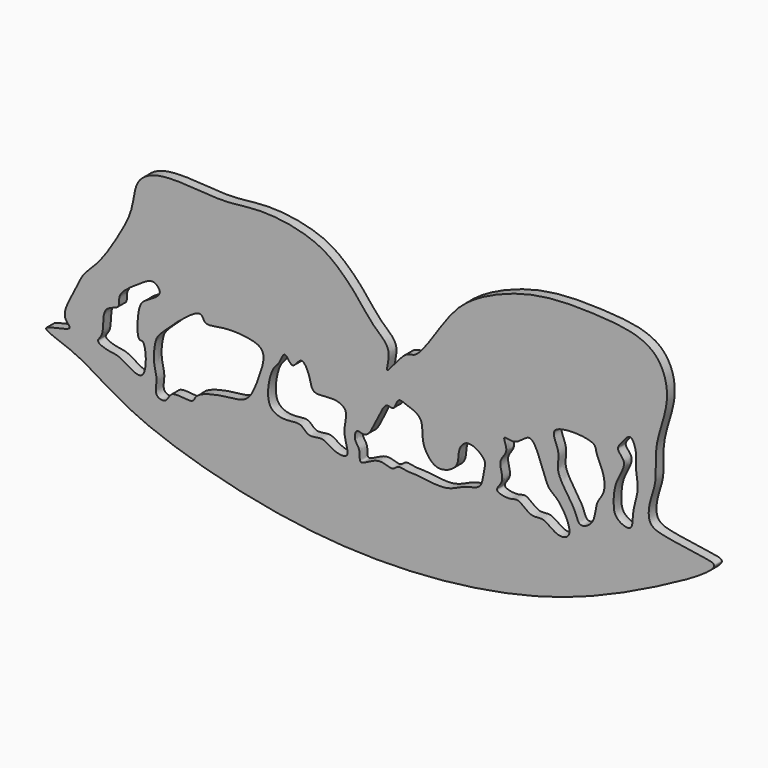
from build123d import *

# Parameters (mm, degrees)
F0_W     = 400
F0_H     = 400
F1_DEPTH = 5
F2_W     = 400
F2_H     = 400
F3_DEPTH = 5
F4_DEPTH = 25


with BuildPart() as f1:
    # F0 (on Front) → F1 (new body)
    with BuildSketch(Plane.XZ):
        Rectangle(F0_W, F0_H)
    extrude(amount=F1_DEPTH)

    # F2 (on face) → F3 (cut, through all)
    with BuildSketch(Plane.XZ.offset(5)):
        Rectangle(F2_W, F2_H)
        with BuildLine():
            add(Edge.make_bspline(
                [(-158.6079895496, -13.9567218721), (-159.7820255249, -10.4262417489), (-152.8310670321, 0.3991916247), (-150.267162206, 8.6616230975), (-140.7477867322, 16.6470810656), (-131.6184867257, 31.2680311733), (-123.1652697351, 46.064122444), (-122.9513191683, 60.4765167442), (-111.8619089097, 67.5705718446), (-92.8821281738, 66.8033823139), (-74.9440039202, 65.0883762249), (-56.3075563426, 68.7569445196), (-30.1126504116, 64.3111684686), (-17.1302491751, 54.7645881842), (-7.4146724016, 44.649064424), (0.6551638009, 33.2108235364), (10.9041810176, 26.7331654718), (4.8029219109, 10.360621283), (17.0551399673, 28.8324617514), (23.3189254489, 25.5708867567), (38.0026388208, 50.5075962071), (51.5874399205, 64.2377871551), (82.6197524024, 77.2489271782), (115.3059975854, 77.1095759435), (147.0288648974, 74.2400497984), (155.2978582529, 49.8582545887), (144.8895347019, 28.1566064827), (147.509251783, 10.8845469646), (142.821465328, 0.7171376005), (142.2591813066, -10.2524089187), (151.4752400846, -12.9509000839), (169.9636261381, -15.4376947531), (182.9671691685, -17.5618400515), (134.6643733444, -44.2501952094), (75.2442204111, -67.9798731748), (-27.1969586365, -76.8572350571), (-125.6335445544, -49.0957517689), (-149.0281696175, -28.489515178), (-177.259798464, -21.1828285364), (-152.0956375979, -19.0637035334), (-157.9543942133, -15.9221687514), (-158.6079895496, -13.9567218721)],
                knots=[0, 0, 0, 0, 0.0221316045, 0.0397040196, 0.0592160342, 0.0833112073, 0.1071883923, 0.128019353, 0.1472491954, 0.1721531474, 0.1965833866, 0.2217466435, 0.2509965929, 0.27392182, 0.295249103, 0.3168620655, 0.3362755072, 0.3527670921, 0.3739249026, 0.3875171307, 0.4164558328, 0.4429678518, 0.4752862126, 0.5089877549, 0.5398121578, 0.5661312996, 0.5940609705, 0.6175151996, 0.6367459506, 0.6539878387, 0.6704799139, 0.6964567842, 0.7102015007, 0.7471484373, 0.7955796259, 0.8542927295, 0.9114963095, 0.9450671919, 0.9674590719, 0.9876791565, 1, 1, 1, 1], degree=3))
        make_face(mode=Mode.SUBTRACT)
    extrude(amount=-F3_DEPTH, mode=Mode.SUBTRACT)

    # F2 (on face) → F4 (cut)
    with BuildSketch(Plane.XZ.offset(5)):
        with BuildLine():
            add(Edge.make_bspline(
                [(-141.6382938623, -19.080253318), (-141.9060621279, -18.1697737658), (-137.7985860132, -15.611964464), (-140.5394187758, -1.6010656723), (-129.3642321491, -1.2450743374), (-132.3184605412, 6.1988312444), (-121.4239240731, 13.0548280936), (-115.9020148789, 17.0647953474), (-112.0364114147, 17.5321022284), (-107.5152570214, 12.2791937004), (-117.7936986085, 7.6209150195), (-121.2640756425, 3.2740962674), (-121.7557106524, -13.100224484), (-116.9678847099, -9.8452817307), (-115.5432694023, -34.0405901564), (-130.0476168922, -21.6776330626), (-135.4699121475, -22.2490603831), (-141.3233793031, -20.1510421442), (-141.6382938623, -19.080253318)],
                knots=[0, 0, 0, 0, 0.0474927946, 0.1269994989, 0.1887974044, 0.2410408099, 0.3203749845, 0.3818138951, 0.4239798279, 0.4720913252, 0.5404176137, 0.6004670073, 0.6841426872, 0.7166111748, 0.806075853, 0.8836425422, 0.9441450896, 1, 1, 1, 1], degree=3))
        make_face()
        with BuildLine():
            add(Edge.make_bspline(
                [(-108.0215424299, -3.8337444421), (-103.3375320409, 0.8024174485), (-88.0472861616, 14.991065347), (-87.0725334949, 5.5204791648), (-77.3022165023, 8.5785010204), (-64.1972167286, 8.1058763481), (-53.9032389128, 4.7502924945), (-58.9943633244, -9.8124158142), (-63.5904331992, -21.5582504021), (-73.4654131538, -22.5330467277), (-83.2597981373, -23.8375892693), (-91.7412541381, -27.0772936199), (-92.1682150797, -32.1342207615), (-104.6456525037, -28.3993122921), (-105.6676681366, -35.9386001318), (-113.0247007054, -34.6191185932), (-110.5020849282, -26.5609241396), (-113.4611501885, -19.775913172), (-112.1842577139, -8.3724886444), (-110.4973926216, -6.2843031199), (-108.0215424299, -3.8337444421)],
                knots=[0, 0, 0, 0, 0.0916873761, 0.1292870556, 0.1835473304, 0.2545757595, 0.3081312057, 0.3766835036, 0.4424676179, 0.4977852206, 0.5588714543, 0.61285309, 0.6472677589, 0.7067831995, 0.7503078567, 0.7901631691, 0.8389371235, 0.8917118657, 0.9515363569, 1, 1, 1, 1], degree=3))
        make_face()
        with BuildLine():
            add(Edge.make_bspline(
                [(-45.0463704765, 6.1755692586), (-43.9373205659, 5.9786874923), (-41.2566357768, -0.705133168), (-36.6425842223, 9.6843483259), (-31.7034057349, -0.2888290113), (-31.4395569684, -7.8034198002), (-19.4883056267, -4.7670472496), (-11.5860009844, -8.9379095096), (-16.2722040172, -19.0204055332), (-10.1475713799, -30.9070451107), (-20.5257538149, -29.8109801437), (-25.3165092127, -24.5170487985), (-33.1357471556, -27.8839476367), (-36.6679377494, -21.819717534), (-43.9970768937, -23.9816578514), (-56.3011768467, -21.6790514845), (-52.2785886141, -1.3995925088), (-48.0346099377, 0.2655394594), (-46.1984256171, 6.3800854385), (-45.0463704765, 6.1755692586)],
                knots=[0, 0, 0, 0, 0.0488937054, 0.0999699125, 0.1590186944, 0.2129435734, 0.2817344888, 0.3377462044, 0.4051761069, 0.4724739734, 0.5271842221, 0.5840925631, 0.6397962993, 0.6890352884, 0.7458215353, 0.8123847717, 0.9001564309, 0.949210361, 1, 1, 1, 1], degree=3))
        make_face()
        with BuildLine():
            add(Edge.make_bspline(
                [(-7.7862720937, -16.4257921278), (-6.6578125642, -15.9635060321), (-0.9963212084, -20.5506844923), (5.4580293815, 3.584443198), (11.3497518121, -1.8925204439), (12.8994615683, 5.9291476628), (17.4031635254, 3.6547457577), (26.5195948584, 1.2570147145), (25.4377693921, -8.9450385651), (27.8861890873, -15.2448678169), (33.722971321, -21.5680674213), (45.4235650383, -16.5154430085), (43.7314781292, -7.7321598518), (49.458061857, -1.0073596158), (59.0055172317, -7.8266103041), (57.9310265795, -11.816428119), (57.2438186798, -16.3855635144), (55.8697330471, -22.4389614314), (47.3655954199, -22.88421772), (38.675857623, -29.1865970493), (23.5229258112, -26.0193319772), (18.6851990141, -26.7427248653), (12.9383614788, -24.879846489), (10.6371106302, -29.0740943058), (3.0342230254, -23.9475452413), (-7.5633865817, -33.1128662138), (-5.8062090979, -24.0087327008), (-9.6436631523, -21.4037549299), (-8.8546361387, -16.8634594348), (-7.7862720937, -16.4257921278)],
                knots=[0, 0, 0, 0, 0.031270568, 0.0937110577, 0.1205952065, 0.1529222609, 0.1806708126, 0.2217846127, 0.2639053338, 0.301301634, 0.3398766272, 0.384583045, 0.4247005001, 0.4610890434, 0.5045454308, 0.5314528041, 0.562285698, 0.5949395613, 0.63339591, 0.6800809982, 0.7342886575, 0.7669035074, 0.7989019493, 0.8243767496, 0.8636862475, 0.9073991507, 0.9395618341, 0.9703947287, 1, 1, 1, 1], degree=3))
        make_face()
        with BuildLine():
            add(Edge.make_bspline(
                [(81.7168504, 9.2289624736), (85.1666865724, 7.9974412894), (89.4832773807, -11.3445430354), (95.8441630005, -12.1265824392), (105.156161848, -28.4963191999), (95.4165446295, -31.4714564282), (88.5876238117, -23.816493991), (82.0244204338, -27.0067990675), (75.4940274848, -19.4913759836), (71.5892817545, -22.3020150886), (61.5412130028, -20.4419325016), (69.2509295849, -14.8212024274), (63.9794220136, -5.8108714054), (71.181481752, -0.8767407261), (66.1119704785, 7.1709835532), (74.6842020664, 2.9185275703), (79.4106163045, 10.0522410301), (81.7168504, 9.2289624736)],
                knots=[0, 0, 0, 0, 0.106340739, 0.1711100632, 0.2624731254, 0.3206255917, 0.3923750801, 0.4506250868, 0.5177585642, 0.5683376039, 0.6300094098, 0.6862104948, 0.7556463218, 0.818316927, 0.8731646706, 0.9289106422, 1, 1, 1, 1], degree=3))
        make_face()
        with BuildLine():
            add(Edge.make_bspline(
                [(94.4173708558, 17.1350408345), (92.5459419715, 15.1342053661), (97.7311195247, 8.1458765406), (94.3818351098, -0.1300811453), (100.3448092767, -9.4225416419), (105.3951453174, -16.6381105792), (106.5835848261, -23.1969584021), (115.4454376871, -19.1394777376), (114.9644159156, -8.4894995411), (120.4865650141, -3.5447213265), (119.8645841039, 6.0754232155), (115.1757245685, 13.5954027757), (115.929643239, 19.5510075954), (97.1993463007, 20.1093858334), (94.4173708558, 17.1350408345)],
                knots=[0, 0, 0, 0, 0.084304758, 0.1674705715, 0.2591011313, 0.3461637349, 0.4085682327, 0.482056019, 0.5716570773, 0.6459046037, 0.7310485555, 0.8149611798, 0.8746766342, 1, 1, 1, 1], degree=3))
        make_face()
        with BuildLine():
            add(Edge.make_bspline(
                [(133.2799643278, 26.6889669001), (131.929344082, 26.9725463973), (128.8213856104, 22.722496293), (125.4682333954, 18.788010309), (132.4369213389, 14.2677742702), (125.0800048026, 4.4284653147), (124.4404504867, -6.0940925177), (125.0899898772, -12.9571269639), (135.0158939365, -17.0045914925), (133.9289953536, -6.2577467949), (138.2568275968, 3.8815454421), (135.5789992767, 13.1192962596), (137.0112380155, 19.46419952), (134.7777570705, 26.3744867091), (133.2799643278, 26.6889669001)],
                knots=[0, 0, 0, 0, 0.072906962, 0.1364707409, 0.2072622875, 0.3052681779, 0.4048725182, 0.4818631364, 0.5611722745, 0.6453580598, 0.7482698623, 0.8383147333, 0.9191486142, 1, 1, 1, 1], degree=3))
        make_face()
    extrude(amount=-F4_DEPTH, mode=Mode.SUBTRACT)


solid = f1.part
